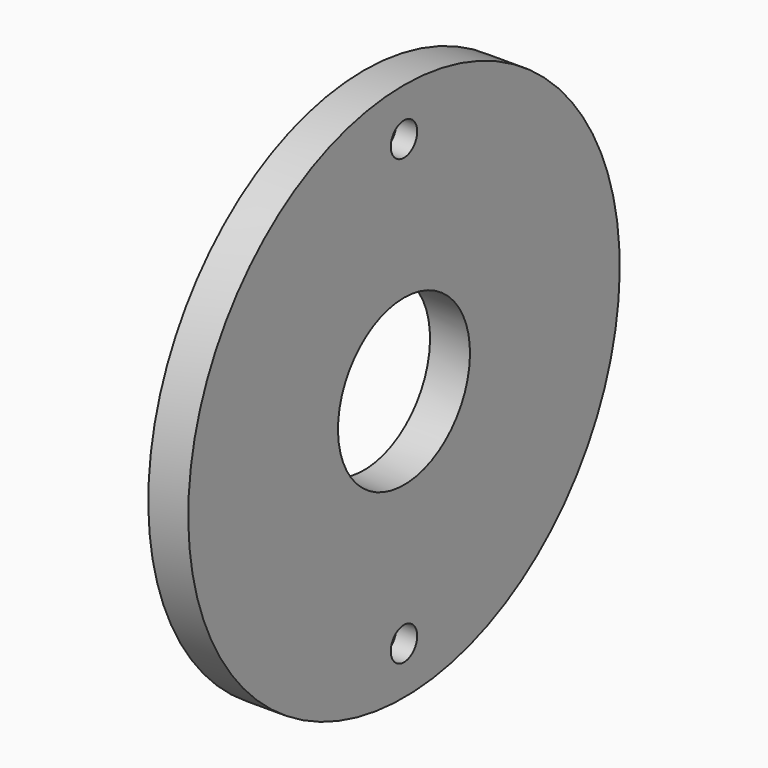
from build123d import *

# Parameters (mm, degrees)
F0_W     = 6.3
F0_H     = 29.5
F2_R     = 2.6
F3_DEPTH = 25
F4_R     = 5.2
F4_R_2   = 2.6
F5_DEPTH = 3


with BuildPart() as f1:
    # F0 (on Front) → F1 (revolve)
    with BuildSketch(Plane.XZ):
        with Locations((5.599999, 27.75)):
            Rectangle(F0_W, F0_H)
    revolve(axis=Axis((-4.686111, 0, 0), (-1, 0, 0)))

    # F2 (on face) → F3 (cut)
    with BuildSketch(Plane(origin=(2.449999, 0, 0), x_dir=(0, -1, 0), z_dir=(-1, 0, 0))):
        with Locations((0, 35)):
            Circle(F2_R)
        with Locations((0, -35)):
            Circle(F2_R)
    extrude(amount=-F3_DEPTH, mode=Mode.SUBTRACT)

    # F4 (on face) → F5 (cut)
    with BuildSketch(Plane(origin=(2.449999, 0, 0), x_dir=(0, -1, 0), z_dir=(-1, 0, 0))):
        with Locations((0, 35)):
            Circle(F4_R)
        with Locations((0, 35)):
            Circle(F4_R_2, mode=Mode.SUBTRACT)
        with Locations((0, -35)):
            Circle(F4_R)
        with Locations((0, -35)):
            Circle(F4_R_2, mode=Mode.SUBTRACT)
    extrude(amount=-F5_DEPTH, mode=Mode.SUBTRACT)


solid = f1.part
